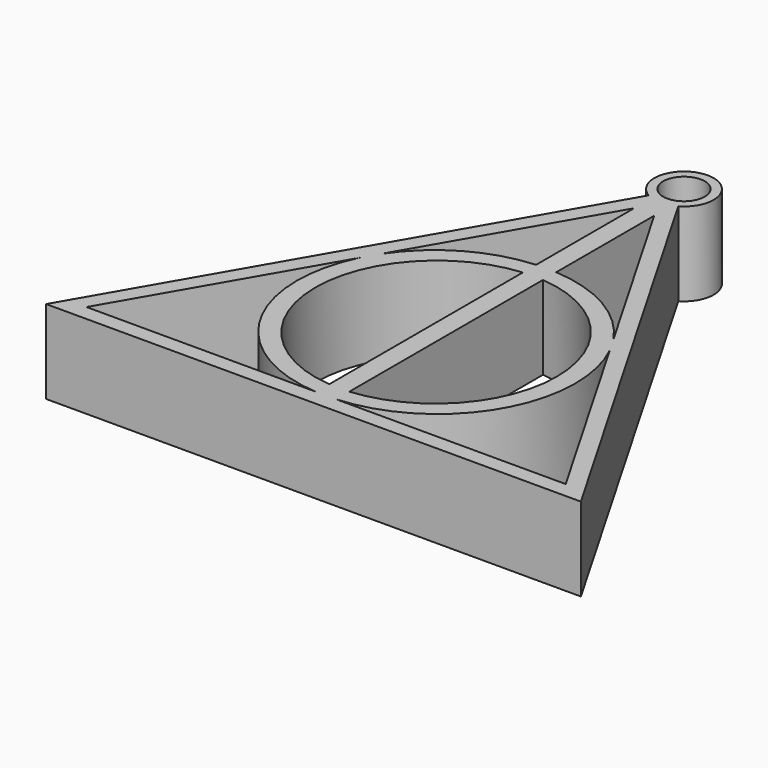
from build123d import *

# Parameters (mm, degrees)
F1_DEPTH = 6.35


with BuildPart() as f1:
    # F0 (on Top) → F1 (new body)
    with BuildSketch(Plane.XY):
        with BuildLine():
            Line((-1.125735, 22.943184), (-20.32, -10.302259))
            Line((-20.32, -10.302259), (0, -10.302259))
            Line((0, -10.302259), (20.32, -10.302259))
            Line((20.32, -10.302259), (1.125735, 22.943184))
            ThreePointArc((1.125735, 22.943184), (0, 27.144483), (-1.125735, 22.943184))
        make_face()
        with BuildLine():
            Line((-0.764991, -9.103689), (-18.208449, -9.103689))
            Line((-18.208449, -9.103689), (-9.496779, 5.985365))
            ThreePointArc((-9.496779, 5.985365), (-9.171397, -3.89734), (-0.764991, -9.103689))
        make_face(mode=Mode.SUBTRACT)
        with BuildLine():
            Line((-0.764991, 10.540828), (-0.764991, -7.850349))
            ThreePointArc((-0.764991, -7.850349), (-9.174241, 1.345239), (-0.764991, 10.540828))
        make_face(mode=Mode.SUBTRACT)
        with BuildLine():
            ThreePointArc((0.764991, -9.103689), (9.171397, -3.89734), (9.496779, 5.985365))
            Line((9.496779, 5.985365), (18.208449, -9.103689))
            Line((18.208449, -9.103689), (0.764991, -9.103689))
        make_face(mode=Mode.SUBTRACT)
        with BuildLine():
            Line((0.764991, -7.850349), (0.764991, 10.540828))
            ThreePointArc((0.764991, 10.540828), (9.174241, 1.345239), (0.764991, -7.850349))
        make_face(mode=Mode.SUBTRACT)
        with BuildLine():
            Line((-0.764991, 21.109266), (-0.764991, 11.799275))
            ThreePointArc((-0.764991, 11.799275), (-5.334498, 10.422163), (-8.818391, 7.160368))
            Line((-8.818391, 7.160368), (-0.764991, 21.109266))
        make_face(mode=Mode.SUBTRACT)
        with BuildLine():
            ThreePointArc((8.818391, 7.160368), (5.334498, 10.422163), (0.764991, 11.799275))
            Line((0.764991, 11.799275), (0.764991, 21.109266))
            Line((0.764991, 21.109266), (8.818391, 7.160368))
        make_face(mode=Mode.SUBTRACT)
        with BuildLine():
            ThreePointArc((1.583799, 24.893014), (1.37161, 24.101114), (0.7919, 23.521403))
            ThreePointArc((0.7919, 23.521403), (0, 23.309214), (-0.7919, 23.521403))
            ThreePointArc((-0.7919, 23.521403), (-0.7919, 26.264624), (1.583799, 24.893014))
        make_face(mode=Mode.SUBTRACT)
    extrude(amount=F1_DEPTH)


solid = f1.part
